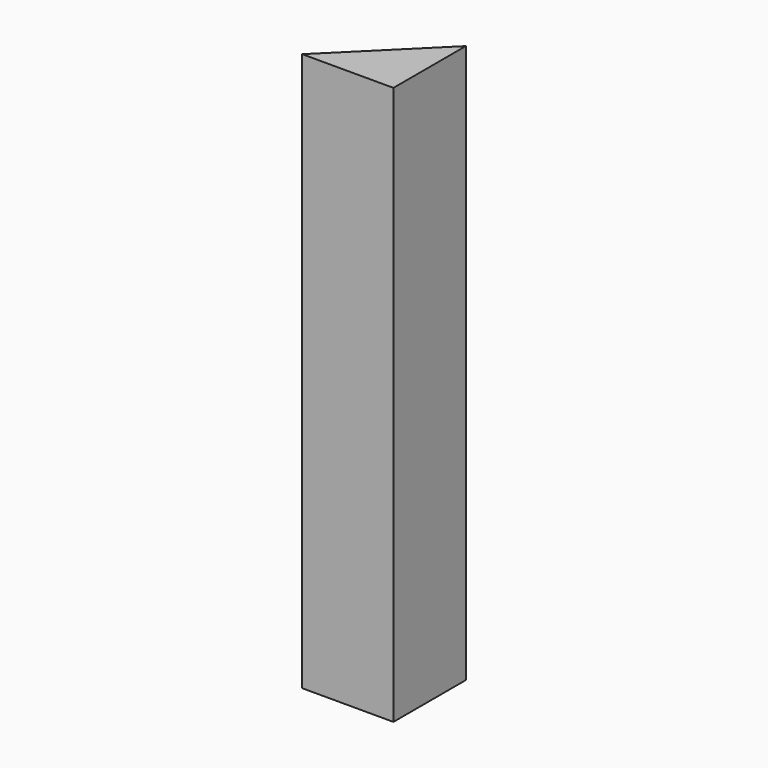
from build123d import *

# Parameters (mm, degrees)
F2_DEPTH = 400


with BuildPart() as f2:
    # F1 (on face) → F2 (new body)
    with BuildSketch(Plane.XY):
        Polygon((26.7658010125, -30.6493006647), (26.7658010125, 34.1864414513), (-38.5958142579, -30.6493006647), align=None)
    extrude(amount=F2_DEPTH)


with BuildPart() as f2b:
    # F0 (on Top) → F2, piece 2 (new body)
    with BuildSketch(Plane.XY):
        Polygon((26.7658010125, 34.1864414513), (-38.5958142579, -30.6493006647), (26.7658010125, -30.6493006647), align=None)
    extrude(amount=F2_DEPTH)


solid = Compound([f2.part, f2b.part])
